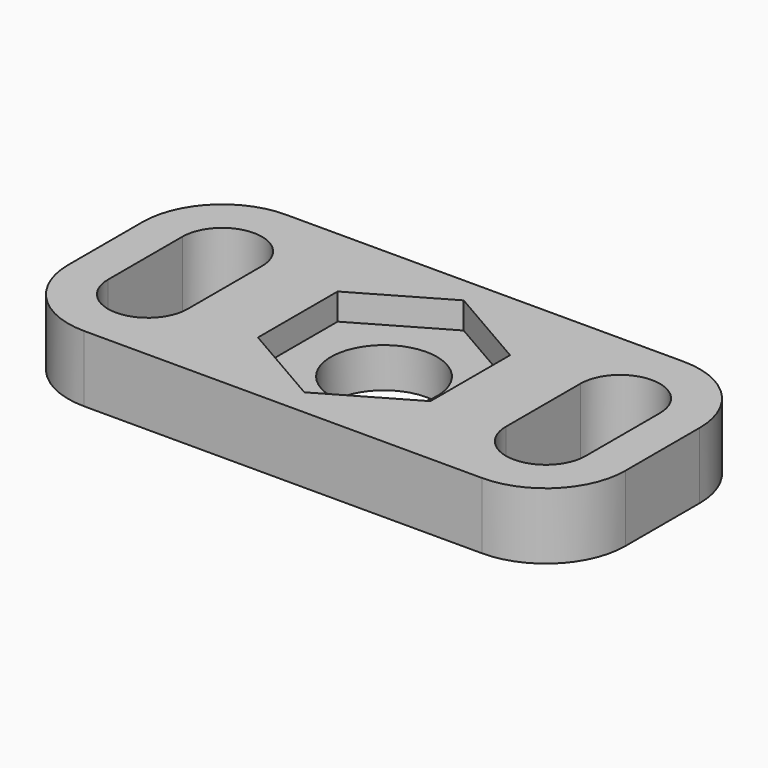
from build123d import *

# Parameters (mm, degrees)
SKETCH_R     = 4
PAD_DEPTH    = 5
POCKET_DEPTH = 2


with BuildPart() as part:
    # Sketch → Pad (new body)
    with BuildSketch(Plane.XY):
        with BuildLine():
            Line((-15, -9.5), (15, -9.5))
            ThreePointArc((15, -9.5), (19.242641, -7.742641), (21, -3.5))
            Line((21, -3.5), (21, 3.5))
            ThreePointArc((21, 3.5), (19.242641, 7.742641), (15, 9.5))
            Line((15, 9.5), (-15, 9.5))
            ThreePointArc((-15, 9.5), (-19.242641, 7.742641), (-21, 3.5))
            Line((-21, 3.5), (-21, -3.5))
            ThreePointArc((-21, -3.5), (-19.242641, -7.742641), (-15, -9.5))
        make_face()
        Circle(SKETCH_R, mode=Mode.SUBTRACT)
        with BuildLine():
            ThreePointArc((-12, 3.5), (-15, 6.5), (-18, 3.5))
            Line((-18, 3.5), (-18, -3.5))
            ThreePointArc((-18, -3.5), (-15, -6.5), (-12, -3.5))
            Line((-12, 3.5), (-12, -3.5))
        make_face(mode=Mode.SUBTRACT)
        with BuildLine():
            ThreePointArc((18, 3.5), (15, 6.5), (12, 3.5))
            Line((12, 3.5), (12, -3.5))
            ThreePointArc((12, -3.5), (15, -6.5), (18, -3.5))
            Line((18, 3.5), (18, -3.5))
        make_face(mode=Mode.SUBTRACT)
    extrude(amount=PAD_DEPTH)

    # Sketch001 (on Face19 of Pad) → Pocket (cut)
    with BuildSketch(Plane.XY.offset(5)):
        Polygon((6.5, 3.752777), (0, 7.505553), (-6.5, 3.752777), (-6.5, -3.752777), (0, -7.505553), (6.5, -3.752777), align=None)
    extrude(amount=-POCKET_DEPTH, mode=Mode.SUBTRACT)


solid = part.part
